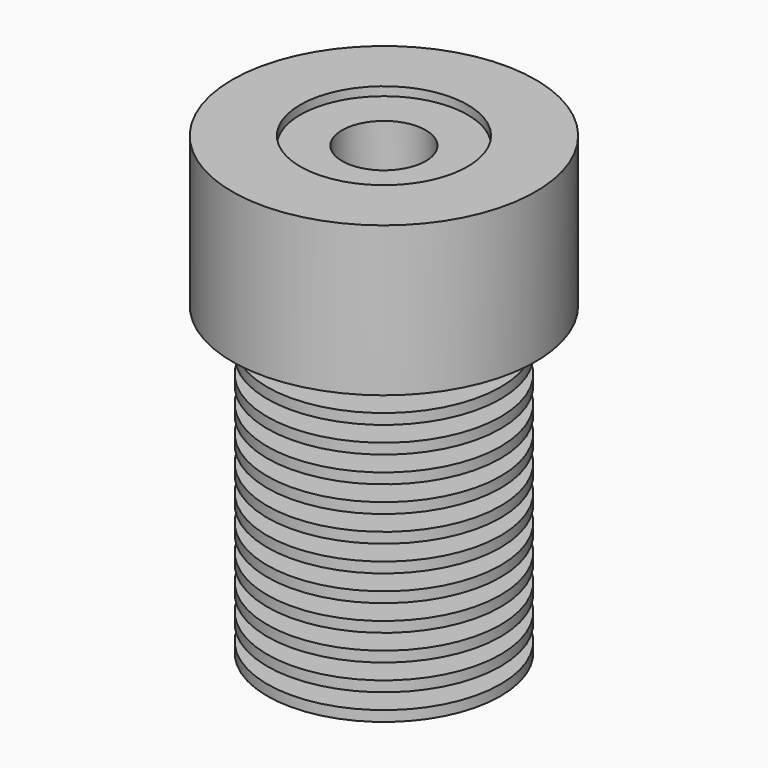
from build123d import *


with BuildPart() as f1:
    # F0 (on Front) → F1 (revolve)
    with BuildSketch(Plane.XZ):
        Polygon((6, 25), (11.15, 25), (11.15, 26), (4.5, 26), (4.5, 27.5), (8, 27.5), (8, 28.5), (4.5, 28.5), (4.5, 30), (8, 30), (8, 33), (6, 33), (6, 39), (8, 39), (8, 42.7), (4, 42.7), (4, 35.122999), (2.1, 33.222999), (2.1, 10.615828), (3, 9.715828), (3, 0), (11.15, 0), (11.15, 1), (6, 1), (6, 2.5), (11.15, 2.5), (11.15, 3.5), (6, 3.5), (6, 5), (11.15, 5), (11.15, 6), (6, 6), (6, 7.5), (11.15, 7.5), (11.15, 8.5), (6, 8.5), (6, 10), (11.15, 10), (11.15, 11), (6, 11), (6, 12.5), (11.15, 12.5), (11.15, 13.5), (6, 13.5), (6, 15), (11.15, 15), (11.15, 16), (6, 16), (6, 17.5), (11.15, 17.5), (11.15, 18.5), (6, 18.5), (6, 20), (11.15, 20), (11.15, 21), (6, 21), (6, 22.5), (11.15, 22.5), (11.15, 23.5), (6, 23.5), align=None)
    revolve(axis=Axis((0, 0, 21.35), (0, 0, -1)))


with BuildPart() as f2:
    # F0 (on Front) → F2 (revolve)
    with BuildSketch(Plane.XZ):
        Polygon((-8, 39), (-8, 42.7), (-8, 43.535843), (-14.5, 43.535843), (-14.5, 29.234255), (-8, 29.234255), (-8, 30), (-8, 33), align=None)
    revolve(axis=Axis((0, 0, 21.35), (0, 0, -1)))


solid = Compound([f1.part, f2.part])
